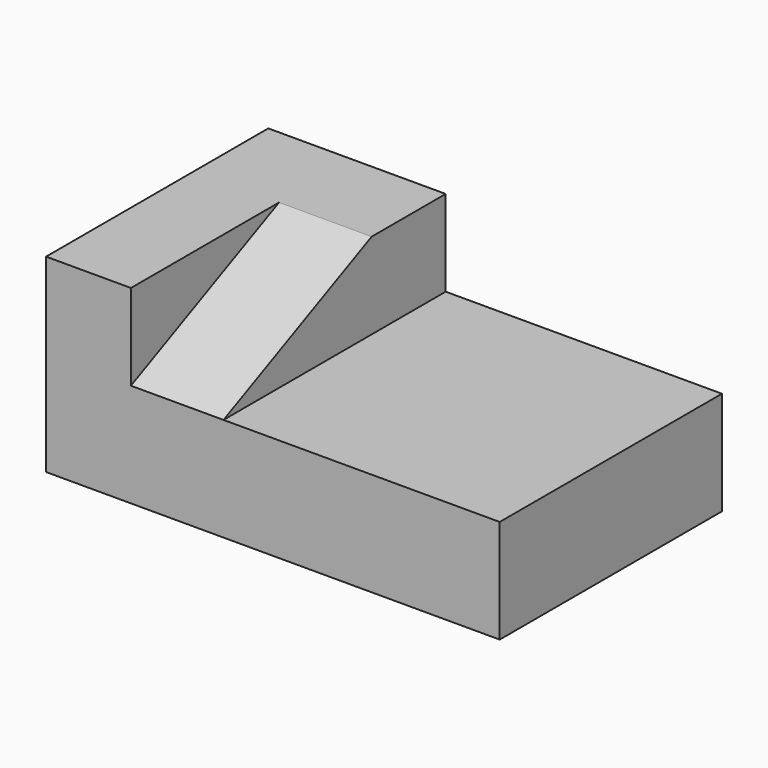
from build123d import *

# Parameters (mm, degrees)
F1_DEPTH = 76.2
F3_DEPTH = 25.4


with BuildPart() as f1:
    # F0 (on Front) → F1 (new body)
    with BuildSketch(Plane.XZ):
        Polygon((0, 52.028358), (0, 0), (124.460004, 0), (124.460004, 28.418854), (48.67639, 28.418854), (48.67639, 52.028358), align=None)
    extrude(amount=F1_DEPTH)

    # F2 (on face) → F3 (cut)
    with BuildSketch(Plane.YZ.offset(48.67639)):
        Polygon((-76.2, 28.418854), (-25.4, 52.028358), (-76.2, 52.028358), align=None)
    extrude(amount=-F3_DEPTH, mode=Mode.SUBTRACT)


solid = f1.part
